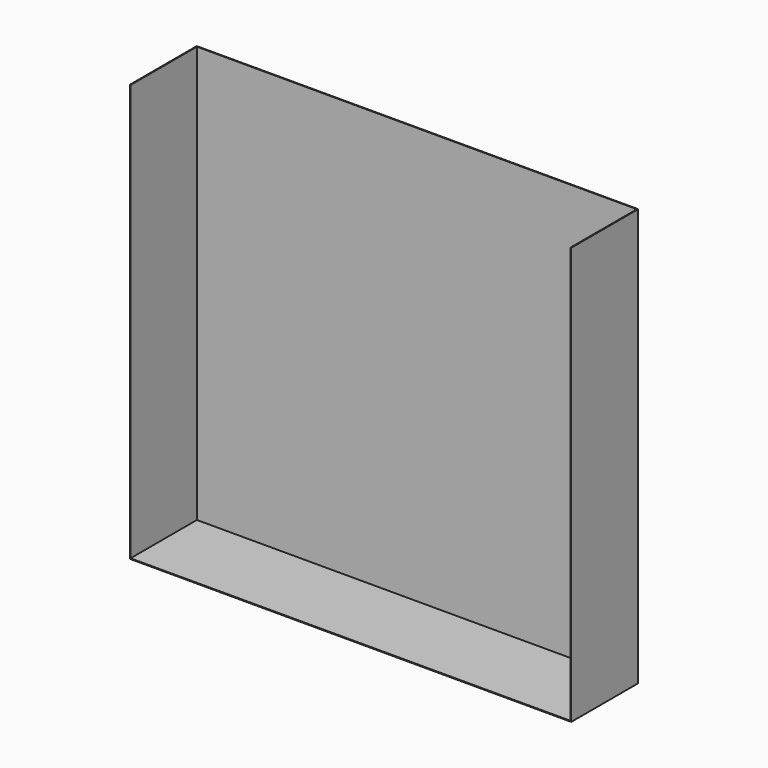
from build123d import *

# Parameters (mm, degrees)
F0_W     = 1507.074781
F0_H     = 1424.91189
F1_DEPTH = 285.75
F2_T     = -2.54


with BuildPart() as f1:
    # F0 (on Front) → F1 (new body)
    with BuildSketch(Plane.XZ):
        with Locations((310.831803, 630.651133)):
            Rectangle(F0_W, F0_H)
    extrude(amount=F1_DEPTH)

    # F2
    f2_openings = [f1.faces().sort_by_distance(p)[0] for p in [
        (310.831804, -285.75, 630.651133),
        (310.831804, -142.875, 1343.107078),
    ]]
    offset(amount=F2_T, openings=f2_openings)


solid = f1.part
